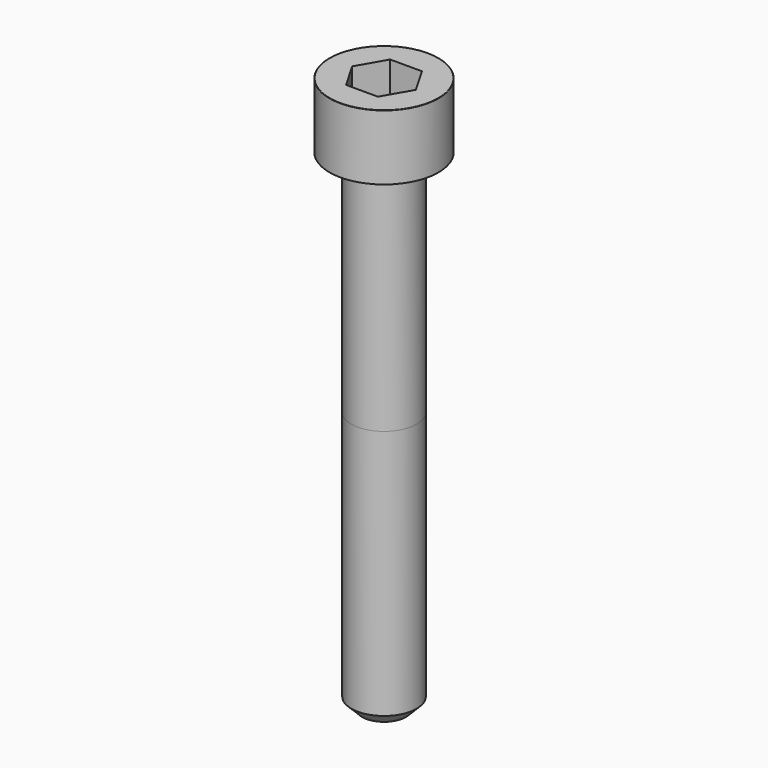
from build123d import *

# Parameters (mm, degrees)
POCKET_DEPTH = 5.06


with BuildPart() as part:
    # Sketch → Revolve (revolve)
    with BuildSketch(Plane.YZ):
        with BuildLine():
            Line((2.999, 0), (5, 0))
            Line((5, 0), (5, 5.97229))
            ThreePointArc((5, 5.97229), (4.991884, 5.991884), (4.97229, 6))
            Line((4.97229, 6), (0, 6))
            Line((0, -45), (0, 6))
            Line((2, -45), (0, -45))
            Line((3, -44), (2, -45))
            Line((3, -21), (3, -44))
            Line((2.999, 0), (3, -21))
        make_face()
    revolve(axis=Axis((0, 0, 0), (0, 0, 1)))

    # Sketch001 → Pocket (cut)
    with BuildSketch(Plane.XY.offset(6)):
        Polygon((2.921392, 0), (1.460696, 2.53), (-1.460696, 2.53), (-2.921392, 0), (-1.460696, -2.53), (1.460696, -2.53), align=None)
    extrude(amount=-POCKET_DEPTH, mode=Mode.SUBTRACT)


solid = part.part
